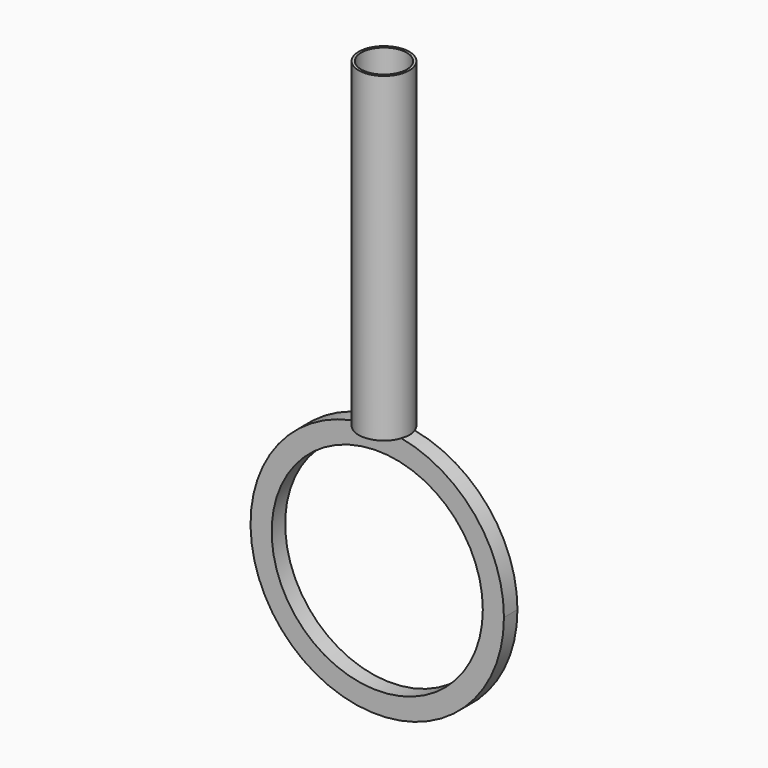
from build123d import *

# Parameters (mm, degrees)
F2_DEPTH = 5
F3_R     = 62.5
F4_DEPTH = 25
F5_R     = 13.5
F6_DEPTH = 150


with BuildPart() as f1:
    # F0 (on Front) → F1 (revolve)
    with BuildSketch(Plane.XZ):
        with BuildLine():
            ThreePointArc((-15, 0), (-7.538172, 1.135519), (0, 1.515308))
            Line((0, 1.515308), (0, 190))
            Line((0, 190), (-15, 190))
            Line((-15, 190), (-15, 0))
        make_face()
    revolve(axis=Axis((0, 0, 81.138), (0, 0, -1)))

    # F0 (on Front) → F2 (join, symmetric)
    with BuildSketch(Plane.XZ):
        with BuildLine():
            Line((-15, 0), (0, 0))
            Line((0, 0), (0, 1.515308))
            ThreePointArc((0, 1.515308), (-7.538172, 1.135519), (-15, 0))
        make_face()
        with BuildLine():
            Line((0, 1.515308), (0, 0))
            Line((0, 0), (-15, 0))
            ThreePointArc((-15, 0), (-47.434165, -131.579442), (75, -73.484692))
            ThreePointArc((75, -73.484692), (53.033009, -20.451684), (0, 1.515308))
        make_face()
    extrude(amount=F2_DEPTH, both=True)

    # F3 (on face) → F4 (cut)
    with BuildSketch(Plane.XZ.offset(5)):
        with Locations((0, -73.484692)):
            Circle(F3_R)
    extrude(amount=-F4_DEPTH, mode=Mode.SUBTRACT)

    # F5 (on face) → F6 (cut)
    with BuildSketch(Plane.XY.offset(190)):
        Circle(F5_R)
    extrude(amount=-F6_DEPTH, mode=Mode.SUBTRACT)


solid = f1.part
